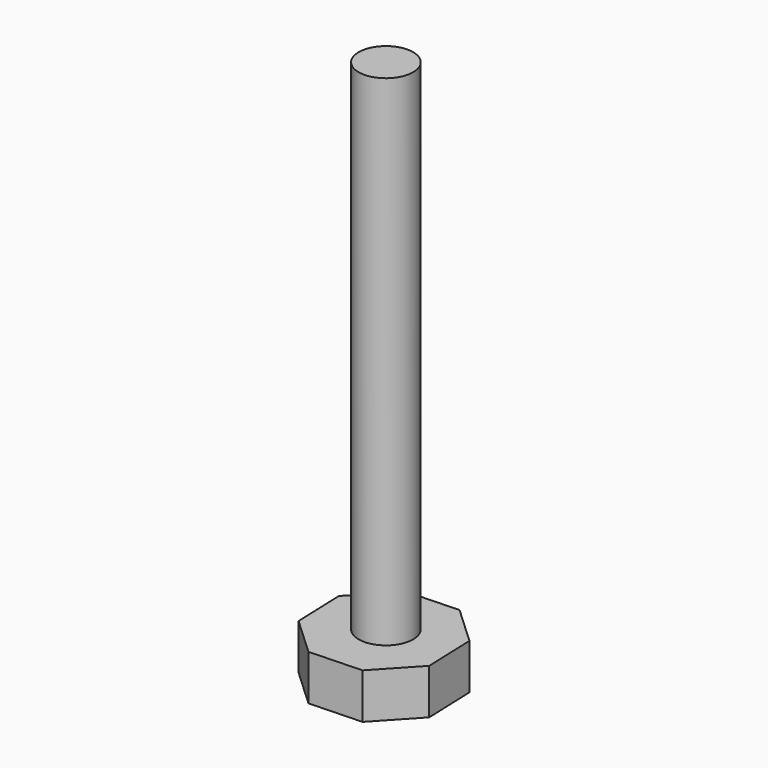
from build123d import *

# Parameters (mm, degrees)
F0_R     = 3
F1_DEPTH = 60
F3_DEPTH = 5


with BuildPart() as f1:
    # F0 (on Top) → F1 (new body)
    with BuildSketch(Plane.XY):
        with Locations((-1.745689, 3.103448)):
            Circle(F0_R)
    extrude(amount=F1_DEPTH)

    # F2 (on Top) → F3 (join)
    with BuildSketch(Plane.XY):
        Polygon((5.200744, 5.918499), (0.954772, 9.868183), (-4.840432, 9.658676), (-8.790116, 5.412704), (-8.580609, -0.3825), (-4.334637, -4.332185), (1.460567, -4.122677), (5.410251, 0.123295), align=None)
    extrude(amount=F3_DEPTH)


solid = f1.part
